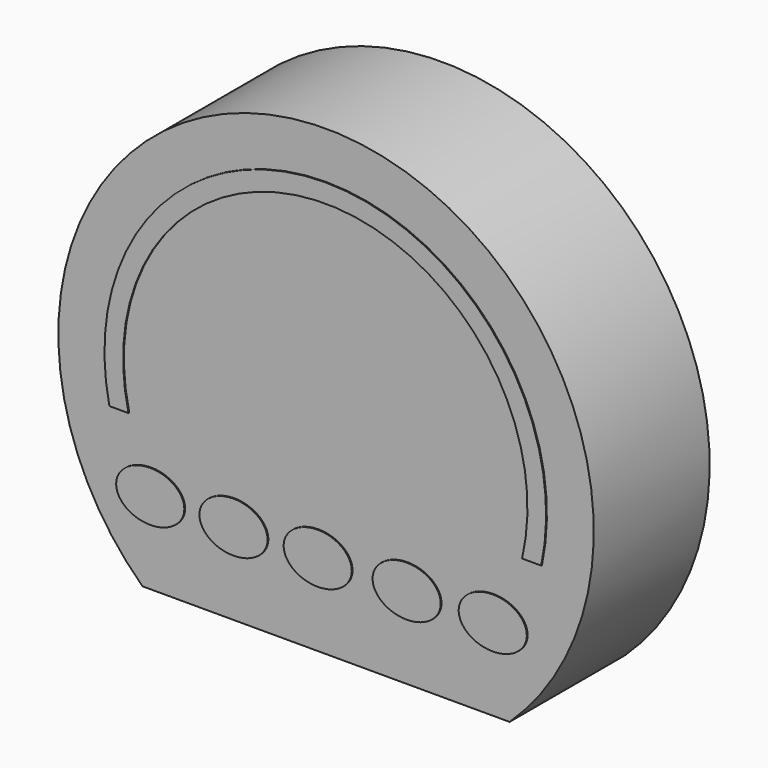
from build123d import *

# Parameters (mm, degrees)
F1_DEPTH = 38.1
F3_DEPTH = 0.254
F5_DEPTH = 65


with BuildPart() as f1:
    # F0 (on Front) → F1 (new body)
    with BuildSketch(Plane.XZ):
        with BuildLine():
            ThreePointArc((48.2797399163, -43.178036809), (0, 78.5093375194), (-48.2797399163, -43.178036809))
            Line((-48.2797399163, -43.178036809), (48.2797399163, -43.178036809))
        make_face()
    extrude(amount=F1_DEPTH)

    # F2 (on face) → F3 (join)
    with BuildSketch(Plane.XZ.offset(38.1)):
        with BuildLine():
            add(Edge.make_bspline(
                [(-37.0862976189, -21.526746532), (-37.0862976189, -10.0909144428), (-50.524991798, -15.8088304874), (-63.9636859771, -21.526746532), (-50.524991798, -27.2446625766), (-37.0862976189, -32.9625786212), (-37.0862976189, -21.526746532)],
                knots=[0, 0, 0, 2.0943951024, 2.0943951024, 4.1887902048, 4.1887902048, 6.2831853072, 6.2831853072, 6.2831853072], degree=2, weights=[1, 0.5, 1, 0.5, 1, 0.5, 1]))
        make_face()
        with BuildLine():
            add(Edge.make_bspline(
                [(-15.1848064807, -21.526746532), (-15.1848064807, -10.0909144428), (-28.6235006598, -15.8088304874), (-42.0621948388, -21.526746532), (-28.6235006598, -27.2446625766), (-15.1848064807, -32.9625786212), (-15.1848064807, -21.526746532)],
                knots=[0, 0, 0, 2.0943951024, 2.0943951024, 4.1887902048, 4.1887902048, 6.2831853072, 6.2831853072, 6.2831853072], degree=2, weights=[1, 0.5, 1, 0.5, 1, 0.5, 1]))
        make_face()
        with BuildLine():
            add(Edge.make_bspline(
                [(6.9655476492, -21.526746532), (6.9655476492, -10.0909144428), (-6.4731465298, -15.8088304874), (-19.9118407089, -21.526746532), (-6.4731465298, -27.2446625766), (6.9655476492, -32.9625786212), (6.9655476492, -21.526746532)],
                knots=[0, 0, 0, 2.0943951024, 2.0943951024, 4.1887902048, 4.1887902048, 6.2831853072, 6.2831853072, 6.2831853072], degree=2, weights=[1, 0.5, 1, 0.5, 1, 0.5, 1]))
        make_face()
        with BuildLine():
            add(Edge.make_bspline(
                [(30.36152079, -21.526746532), (30.36152079, -10.0909144428), (16.9228266109, -15.8088304874), (3.4841324318, -21.526746532), (16.9228266109, -27.2446625766), (30.36152079, -32.9625786212), (30.36152079, -21.526746532)],
                knots=[0, 0, 0, 2.0943951024, 2.0943951024, 4.1887902048, 4.1887902048, 6.2831853072, 6.2831853072, 6.2831853072], degree=2, weights=[1, 0.5, 1, 0.5, 1, 0.5, 1]))
        make_face()
        with BuildLine():
            add(Edge.make_bspline(
                [(53.0082075507, -21.526746532), (53.0082075507, -10.0909144428), (39.5695133716, -15.8088304874), (26.1308191926, -21.526746532), (39.5695133716, -27.2446625766), (53.0082075507, -32.9625786212), (53.0082075507, -21.526746532)],
                knots=[0, 0, 0, 2.0943951024, 2.0943951024, 4.1887902048, 4.1887902048, 6.2831853072, 6.2831853072, 6.2831853072], degree=2, weights=[1, 0.5, 1, 0.5, 1, 0.5, 1]))
        make_face()
        with BuildLine():
            ThreePointArc((56.7967976493, -4.106244538), (0, 66.1792234388), (-56.7967976493, -4.106244538))
            Line((-56.7967976493, -4.106244538), (-51.7638213933, -4.106244538))
            ThreePointArc((-51.7638213933, -4.106244538), (0, 61.2688820478), (51.7638213933, -4.106244538))
            Line((51.7638213933, -4.106244538), (56.7967976493, -4.106244538))
        make_face()
    extrude(amount=F3_DEPTH)


with BuildPart() as f5:
    # F4 (on Top) → F5 (new body)
    with BuildSketch(Plane.XY):
        with BuildLine():
            ThreePointArc((-28.3806738406, -29.6931233406), (-22.01671281, -27.0570843713), (-19.3806738406, -20.6931233406))
            ThreePointArc((-19.3806738406, -20.6931233406), (-22.01671281, -14.3291623099), (-28.3806738406, -11.6931233406))
            ThreePointArc((-28.3806738406, -11.6931233406), (-37.3806738406, -20.6931233406), (-28.3806738406, -29.6931233406))
        make_face()
        with BuildLine():
            ThreePointArc((-10.3806738406, -29.6931233406), (-16.7446348713, -27.0570843713), (-19.3806738406, -20.6931233406))
            ThreePointArc((-19.3806738406, -20.6931233406), (-22.01671281, -27.0570843713), (-28.3806738406, -29.6931233406))
            Line((-28.3806738406, -29.6931233406), (-10.3806738406, -29.6931233406))
        make_face()
        with BuildLine():
            ThreePointArc((-28.3806738406, -11.6931233406), (-22.01671281, -14.3291623099), (-19.3806738406, -20.6931233406))
            ThreePointArc((-19.3806738406, -20.6931233406), (-16.7446348658, -14.3291623044), (-10.380673825, -11.6931233406))
            Line((-10.380673825, -11.6931233406), (-28.3806738406, -11.6931233406))
        make_face()
        with BuildLine():
            ThreePointArc((-10.380673825, -11.6931233406), (-16.7446348658, -14.3291623044), (-19.3806738406, -20.6931233406))
            ThreePointArc((-19.3806738406, -20.6931233406), (-16.7446348713, -27.0570843713), (-10.3806738406, -29.6931233406))
            ThreePointArc((-10.3806738406, -29.6931233406), (-4.01671281, -27.0570843713), (-1.3806738406, -20.6931233406))
            ThreePointArc((-1.3806738406, -20.6931233406), (-4.0167128044, -14.3291623155), (-10.380673825, -11.6931233406))
        make_face()
        with BuildLine():
            Line((7.6193261924, -11.6931233406), (-10.380673825, -11.6931233406))
            ThreePointArc((-10.380673825, -11.6931233406), (-4.0167128044, -14.3291623155), (-1.3806738406, -20.6931233406))
            ThreePointArc((-1.3806738406, -20.6931233406), (1.2553651404, -14.3291622982), (7.6193261924, -11.6931233406))
        make_face()
        with BuildLine():
            ThreePointArc((-1.3806738406, -20.6931233406), (-4.01671281, -27.0570843713), (-10.3806738406, -29.6931233406))
            Line((-10.3806738406, -29.6931233406), (7.6193261683, -29.6931233406))
            ThreePointArc((7.6193261683, -29.6931233406), (1.2553651318, -27.0570843744), (-1.3806738406, -20.6931233406))
        make_face()
        with BuildLine():
            ThreePointArc((7.6193261924, -11.6931233406), (1.2553651404, -14.3291622982), (-1.3806738406, -20.6931233406))
            ThreePointArc((-1.3806738406, -20.6931233406), (1.2553651318, -27.0570843744), (7.6193261683, -29.6931233406))
            ThreePointArc((7.6193261683, -29.6931233406), (13.9832871932, -27.0570843681), (16.6193261594, -20.6931233406))
            ThreePointArc((16.6193261594, -20.6931233406), (13.9832872017, -14.3291623216), (7.6193261924, -11.6931233406))
        make_face()
        with BuildLine():
            Line((25.6193261594, -11.6931233406), (7.6193261924, -11.6931233406))
            ThreePointArc((7.6193261924, -11.6931233406), (13.9832872017, -14.3291623216), (16.6193261594, -20.6931233406))
            ThreePointArc((16.6193261594, -20.6931233406), (19.2553651287, -14.3291623099), (25.6193261594, -11.6931233406))
        make_face()
        with BuildLine():
            ThreePointArc((16.6193261594, -20.6931233406), (13.9832871932, -27.0570843681), (7.6193261683, -29.6931233406))
            Line((7.6193261683, -29.6931233406), (25.6193261594, -29.6931233406))
            ThreePointArc((25.6193261594, -29.6931233406), (19.2553651287, -27.0570843713), (16.6193261594, -20.6931233406))
        make_face()
        with BuildLine():
            ThreePointArc((25.6193261594, -11.6931233406), (19.2553651287, -14.3291623099), (16.6193261594, -20.6931233406))
            ThreePointArc((16.6193261594, -20.6931233406), (19.2553651287, -27.0570843713), (25.6193261594, -29.6931233406))
            ThreePointArc((25.6193261594, -29.6931233406), (31.98328719, -27.0570843713), (34.6193261594, -20.6931233406))
            ThreePointArc((34.6193261594, -20.6931233406), (31.98328719, -14.3291623099), (25.6193261594, -11.6931233406))
        make_face()
    extrude(amount=F5_DEPTH)


solid = Compound([f1.part, f5.part])
